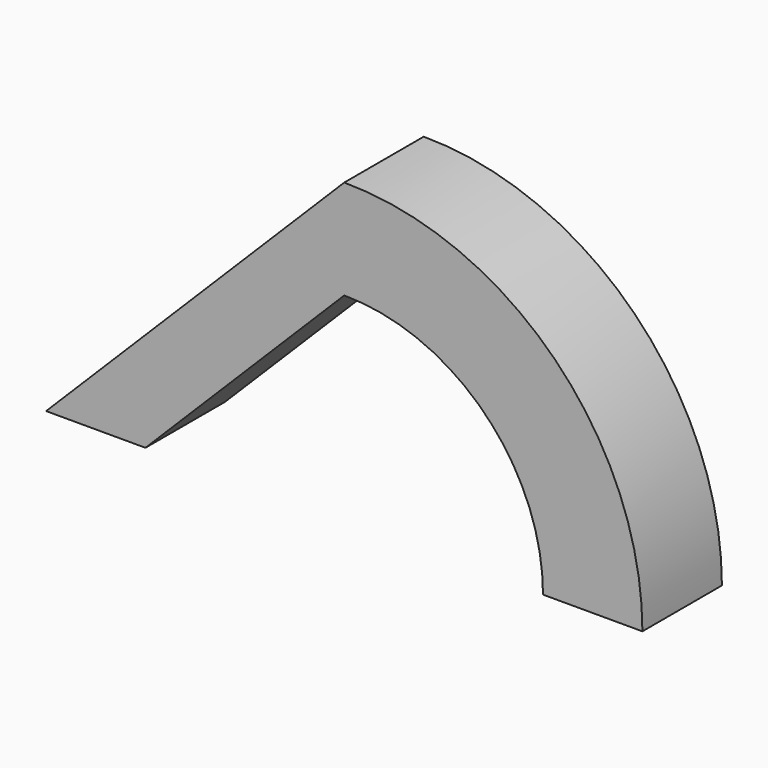
from build123d import *

# Parameters (mm, degrees)
F1_DEPTH = 25.4


with BuildPart() as f1:
    # F0 (on Front) → F1 (new body)
    with BuildSketch(Plane.XZ):
        Polygon((-50.8, 0), (0, 50.8), (0, 76.2), (-76.2, 0), align=None)
        with BuildLine():
            Line((0, 76.2), (0, 50.8))
            ThreePointArc((0, 50.8), (35.921024, 35.921024), (50.8, 0))
            Line((50.8, 0), (76.2, 0))
            ThreePointArc((76.2, 0), (53.881537, 53.881537), (0, 76.2))
        make_face()
    extrude(amount=F1_DEPTH)


solid = f1.part
